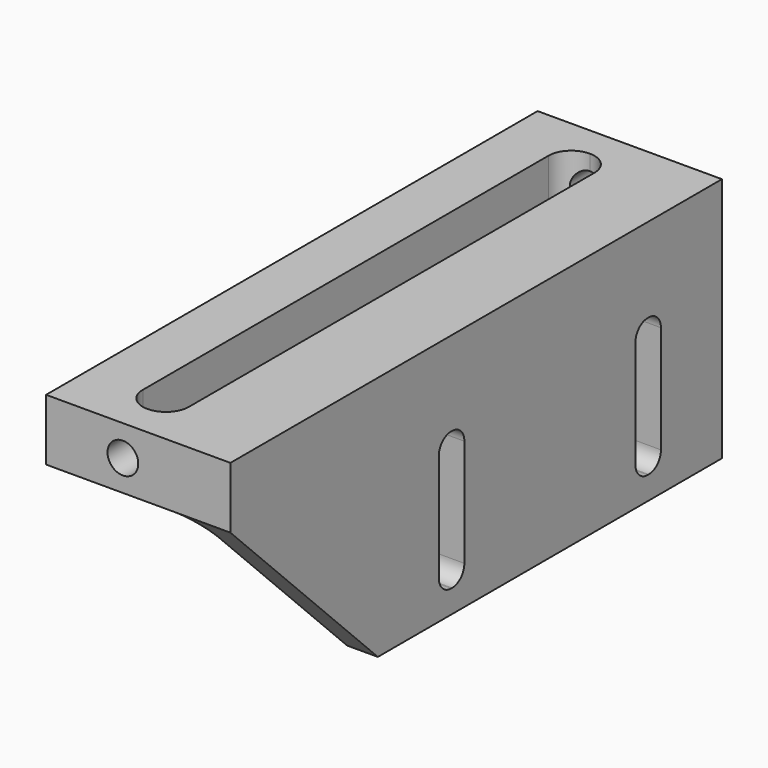
from build123d import *

# Parameters (mm, degrees)
F1_DEPTH  = 127
F2_R      = 5.08
F4_DEPTH  = 50.801
F5_R      = 3.175
F6_DEPTH  = 127.001
F8_DEPTH  = 38.101
F10_DEPTH = 38.101


with BuildPart() as f1:
    # F0 (on Front) → F1 (new body)
    with BuildSketch(Plane.XZ):
        Polygon((19.05, -25.4), (19.05, 25.4), (-19.05, 25.4), (-19.05, 12.7), (12.7, 12.7), (12.7, -25.4), align=None)
    extrude(amount=F1_DEPTH)

    # F2
    f2_edges = [f1.edges().sort_by_distance(p)[0] for p in [
        (12.7, -63.5, 12.7),
    ]]
    fillet(f2_edges, radius=F2_R)

    # F3 (on face) → F4 (cut, through all)
    with BuildSketch(Plane.XY.offset(25.4)):
        with BuildLine():
            Line((-3.1623, -6.35), (-3.1877, -6.35))
            ThreePointArc((-3.1877, -6.35), (-6.546316, -7.741184), (-7.9375, -11.0998))
            Line((-7.9375, -11.0998), (-7.9375, -115.9002))
            ThreePointArc((-7.9375, -115.9002), (-6.546316, -119.258816), (-3.1877, -120.65))
            Line((-3.1877, -120.65), (-3.1623, -120.65))
            ThreePointArc((-3.1623, -120.65), (0.196316, -119.258816), (1.5875, -115.9002))
            Line((1.5875, -115.9002), (1.5875, -11.0998))
            ThreePointArc((1.5875, -11.0998), (0.196316, -7.741184), (-3.1623, -6.35))
        make_face()
    extrude(amount=-F4_DEPTH, mode=Mode.SUBTRACT)

    # F5 (on face) → F6 (cut, through all)
    with BuildSketch(Plane.XZ.offset(127)):
        with Locations((-3.175, 19.05)):
            Circle(F5_R)
    extrude(amount=-F6_DEPTH, mode=Mode.SUBTRACT)

    # F7 (on face) → F8 (cut, through all)
    with BuildSketch(Plane.YZ.offset(19.05)):
        Polygon((-127, 12.7), (-127, -25.4), (-88.9, -25.4), align=None)
    extrude(amount=-F8_DEPTH, mode=Mode.SUBTRACT)

    # F9 (on face) → F10 (cut, through all)
    with BuildSketch(Plane.YZ.offset(19.05)):
        with BuildLine():
            ThreePointArc((-66.548, 4.7625), (-67.477936, 7.007564), (-69.723, 7.9375))
            Line((-69.723, 7.9375), (-69.977, 7.9375))
            ThreePointArc((-69.977, 7.9375), (-72.222064, 7.007564), (-73.152, 4.7625))
            Line((-73.152, 4.7625), (-73.152, -17.4625))
            ThreePointArc((-73.152, -17.4625), (-72.222064, -19.707564), (-69.977, -20.6375))
            Line((-69.977, -20.6375), (-69.723, -20.6375))
            ThreePointArc((-69.723, -20.6375), (-67.477936, -19.707564), (-66.548, -17.4625))
            Line((-66.548, -17.4625), (-66.548, 4.7625))
        make_face()
        with BuildLine():
            ThreePointArc((-15.748, 4.7625), (-16.677936, 7.007564), (-18.923, 7.9375))
            Line((-18.923, 7.9375), (-19.177, 7.9375))
            ThreePointArc((-19.177, 7.9375), (-21.422064, 7.007564), (-22.352, 4.7625))
            Line((-22.352, 4.7625), (-22.352, -17.4625))
            ThreePointArc((-22.352, -17.4625), (-21.422064, -19.707564), (-19.177, -20.6375))
            Line((-19.177, -20.6375), (-18.923, -20.6375))
            ThreePointArc((-18.923, -20.6375), (-16.677936, -19.707564), (-15.748, -17.4625))
            Line((-15.748, -17.4625), (-15.748, 4.7625))
        make_face()
    extrude(amount=-F10_DEPTH, mode=Mode.SUBTRACT)


solid = f1.part
